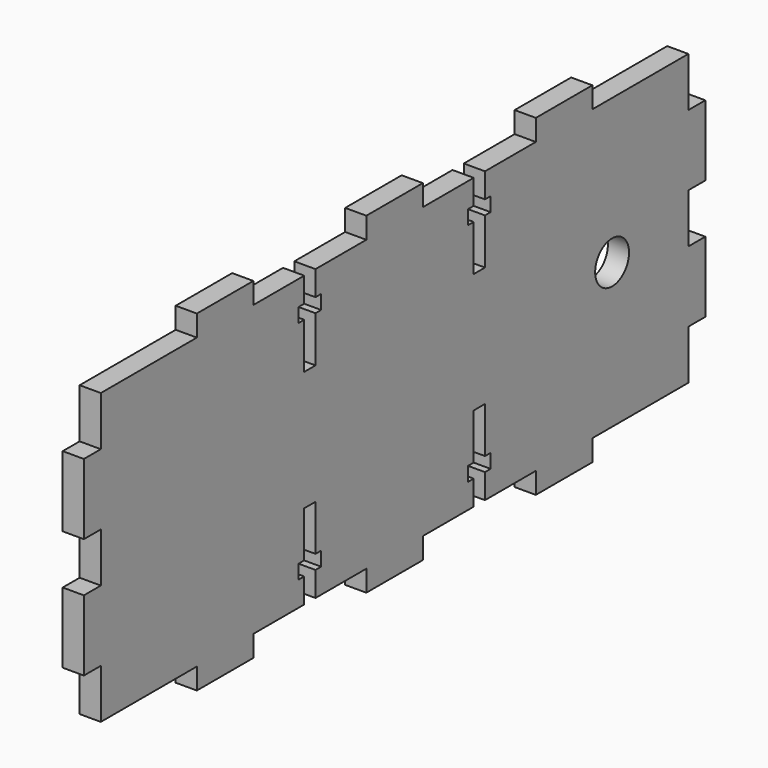
from build123d import *

# Parameters (mm, degrees)
F0_R     = 3
F1_DEPTH = 3


with BuildPart() as f1:
    # F0 (on Right) → F1 (new body)
    with BuildSketch(Plane.YZ):
        Polygon((0, 7), (0, 0), (17, 0), (17, -3), (27, -3), (27, 0), (36, 0), (36, 3.5), (35, 3.5), (35, 5.5), (36, 5.5), (36, 12), (38, 12), (38, 5.5), (39, 5.5), (39, 3.5), (38, 3.5), (38, 0), (47, 0), (47, -3), (52, -3), (57, -3), (57, 0), (66, 0), (66, 3.5), (65, 3.5), (65, 5.5), (66, 5.5), (66, 12), (68, 12), (68, 5.5), (69, 5.5), (69, 3.5), (68, 3.5), (68, 0), (77, 0), (77, -3), (87, -3), (87, 0), (104, 0), (104, 7), (107, 7), (107, 17), (104, 17), (104, 20.5), (104, 24), (107, 24), (107, 34), (104, 34), (104, 41), (87, 41), (87, 44), (77, 44), (77, 41), (68, 41), (68, 37.5), (69, 37.5), (69, 35.5), (68, 35.5), (68, 29), (66, 29), (66, 35.5), (65, 35.5), (65, 37.5), (66, 37.5), (66, 41), (57, 41), (57, 44), (52, 44), (47, 44), (47, 41), (38, 41), (38, 37.5), (39, 37.5), (39, 35.5), (38, 35.5), (38, 29), (36, 29), (36, 35.5), (35, 35.5), (35, 37.5), (36, 37.5), (36, 41), (27, 41), (27, 44), (17, 44), (17, 41), (0, 41), (0, 34), (-3, 34), (-3, 24), (0, 24), (0, 20.5), (0, 17), (-3, 17), (-3, 7), align=None)
        with Locations((90.5, 20.5)):
            Circle(F0_R, mode=Mode.SUBTRACT)
    extrude(amount=F1_DEPTH)


solid = f1.part
